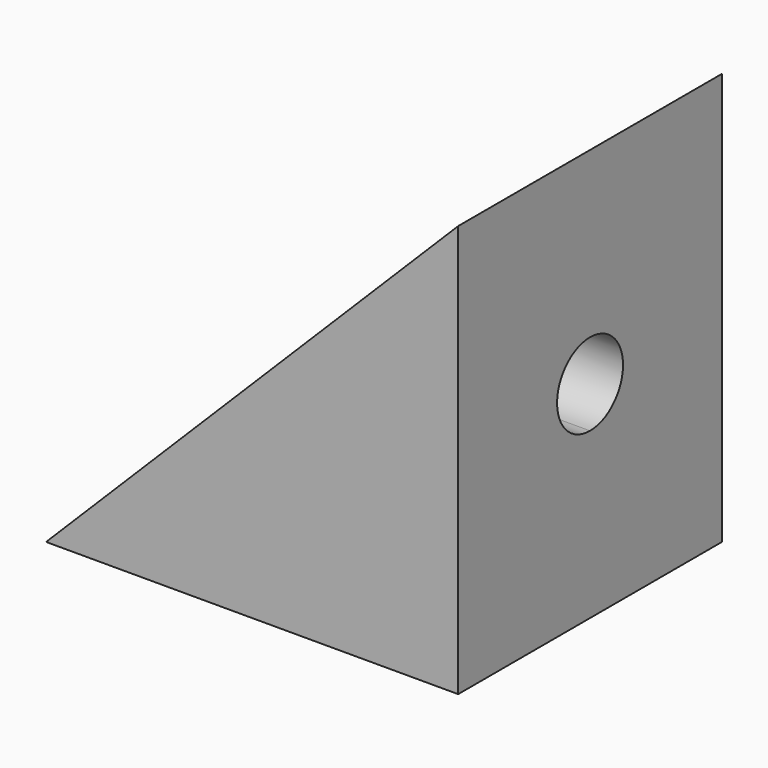
from build123d import *

# Parameters (mm, degrees)
F1_DEPTH = 20
F2_DEPTH = 4
F4_DEPTH = 4
F6_DEPTH = 25.4
F7_R     = 2.5
F8_DEPTH = 25.4


with BuildPart() as f1:
    # F0 (on Front) → F1 (new body)
    with BuildSketch(Plane.XZ):
        Polygon((-7, -7), (-12.5, -12.5), (7, -12.5), (12.5, -12.5), (12.5, -7), (12.5, 12.5), (7, 7), (7, -7), align=None)
    extrude(amount=F1_DEPTH)

    # F0 (on Front) → F2 (join)
    with BuildSketch(Plane.XZ):
        Polygon((-7, -7), (-12.5, -12.5), (7, -12.5), (12.5, -12.5), (12.5, -7), (12.5, 12.5), (7, 7), (7, -7), align=None)
        Polygon((7, 7), (-7, -7), (7, -7), align=None)
    extrude(amount=F2_DEPTH)

    # F3 (on face) → F4 (join)
    with BuildSketch(Plane.XZ.offset(20)):
        Polygon((12.5, 12.5), (-12.5, -12.5), (12.5, -12.5), align=None)
    extrude(amount=-F4_DEPTH)

    # F5 (on face) → F6 (cut)
    with BuildSketch(Plane(origin=(7, 0, 0), x_dir=(0, -1, 0), z_dir=(-1, 0, 0))):
        with BuildLine():
            Line((10, 2.5), (10, -2.5))
            ThreePointArc((10, -2.5), (11.767767, -1.767767), (12.5, 0))
            ThreePointArc((12.5, 0), (11.767767, 1.767767), (10, 2.5))
        make_face()
        with BuildLine():
            ThreePointArc((10, 2.5), (7.5, 0), (10, -2.5))
            Line((10, -2.5), (10, 2.5))
        make_face()
    extrude(amount=-F6_DEPTH, mode=Mode.SUBTRACT)

    # F7 (on face) → F8 (cut)
    with BuildSketch(Plane.XY.offset(-7)):
        with Locations((0, -10)):
            Circle(F7_R)
    extrude(amount=-F8_DEPTH, mode=Mode.SUBTRACT)


solid = f1.part
